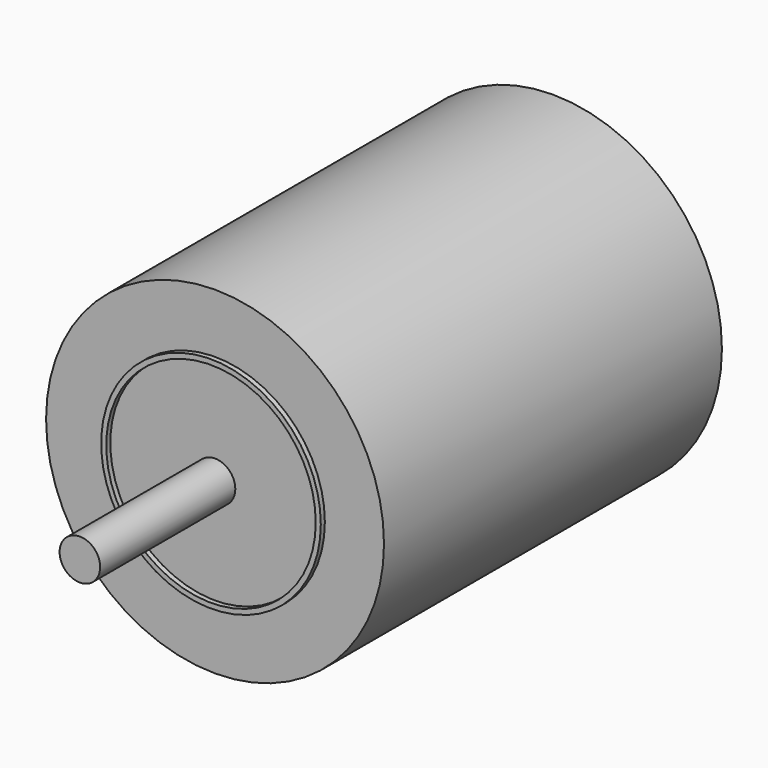
from build123d import *

# Parameters (mm, degrees)
F0_R     = 12
F1_DEPTH = 100
F0_R_2   = 65
F0_R_3   = 62
F2_DEPTH = 3
F0_R_4   = 100
F3_DEPTH = 250


with BuildPart() as f1:
    # F0 (on Front) → F1 (new body)
    with BuildSketch(Plane.XZ):
        Circle(F0_R)
    extrude(amount=F1_DEPTH)


with BuildPart() as f2:
    # F0 (on Front) → F2 (new body)
    with BuildSketch(Plane.XZ):
        Circle(F0_R_2)
        Circle(F0_R_3, mode=Mode.SUBTRACT)
    extrude(amount=F2_DEPTH)


with BuildPart() as f3:
    # F0 (on Front) → F3 (new body)
    with BuildSketch(Plane.XZ):
        Circle(F0_R_4)
        Circle(F0_R_2, mode=Mode.SUBTRACT)
        Circle(F0_R_2)
        Circle(F0_R_3, mode=Mode.SUBTRACT)
        Circle(F0_R_3)
        Circle(F0_R, mode=Mode.SUBTRACT)
        Circle(F0_R)
    extrude(amount=-F3_DEPTH)


solid = Compound([f1.part, f2.part, f3.part])
